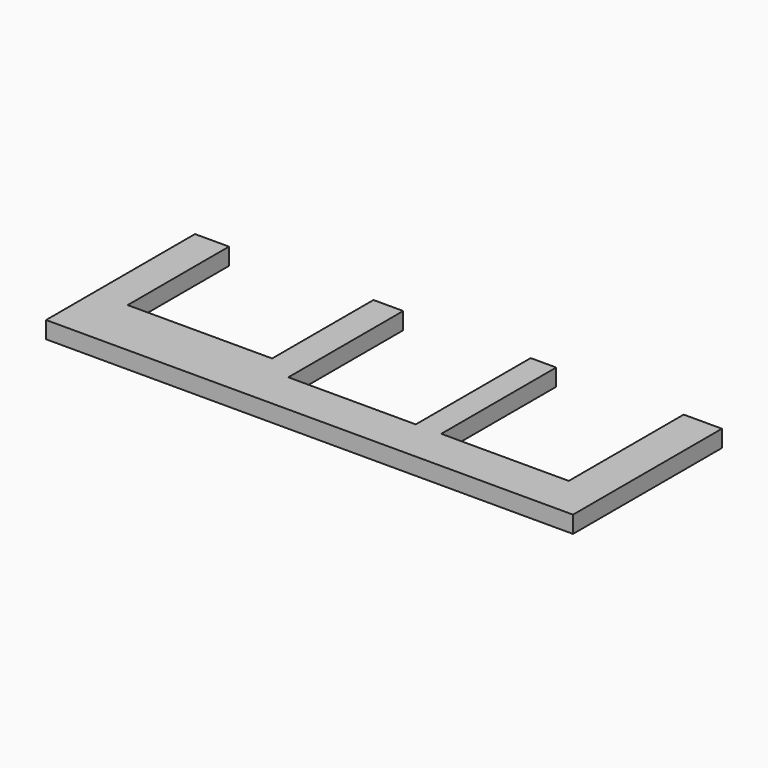
from build123d import *

# Parameters (mm, degrees)
PAD_DEPTH = 2


with BuildPart() as part:
    # Sketch → Pad (new body)
    with BuildSketch(Plane.XY):
        Polygon((0, 0), (62, 0), (62, 21.9), (57.5, 21.9), (57.5, 5), (42.5, 5), (42.5, 21.9), (39.5, 21.9), (39.5, 5), (24.5, 5), (24.5, 21.9), (21, 21.9), (21, 7), (4, 7), (4, 21.9), (0, 21.9), align=None)
    extrude(amount=PAD_DEPTH)


solid = part.part
